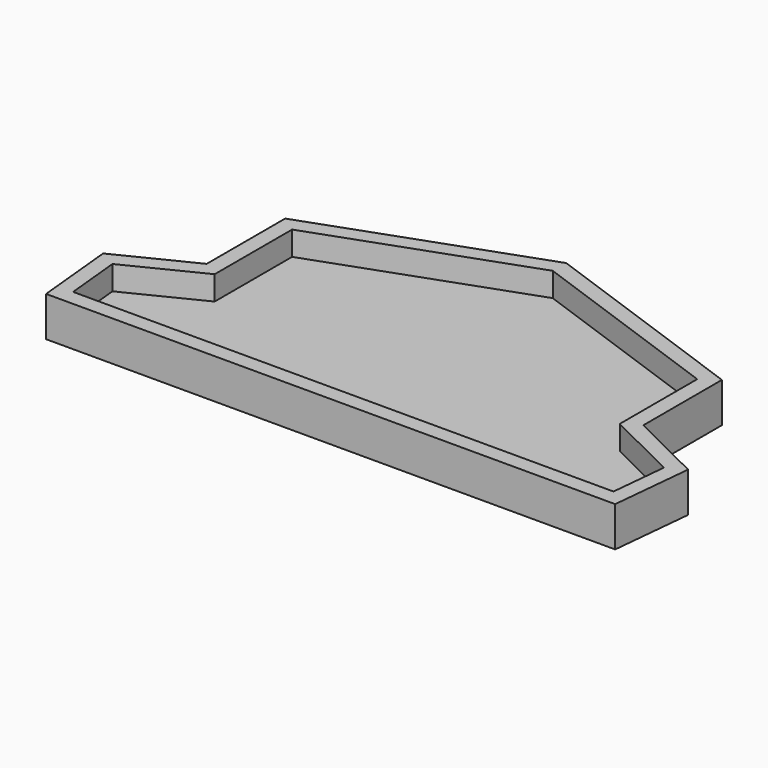
from build123d import *

# Parameters (mm, degrees)
F1_DEPTH = 7.56
F2_T     = -3


with BuildPart() as f1:
    # F0 (on Top) → F1 (new body)
    with BuildSketch(Plane.XY):
        Polygon((41.38, 18.59), (0, 33.4360361274), (-41.38, 18.59), (-41.38, 0), (-55.43, -6.9778825002), (-53.92, -22.3639638726), (0, -22.3639638726), (53.92, -22.3639638726), (55.43, -6.9778825002), (41.38, 0), align=None)
    extrude(amount=F1_DEPTH)

    # F2
    f2_openings = [f1.faces().sort_by_distance(p)[0] for p in [
        (0, 0.369388, 7.56),
    ]]
    offset(amount=F2_T, openings=f2_openings, kind=Kind.INTERSECTION)


solid = f1.part
